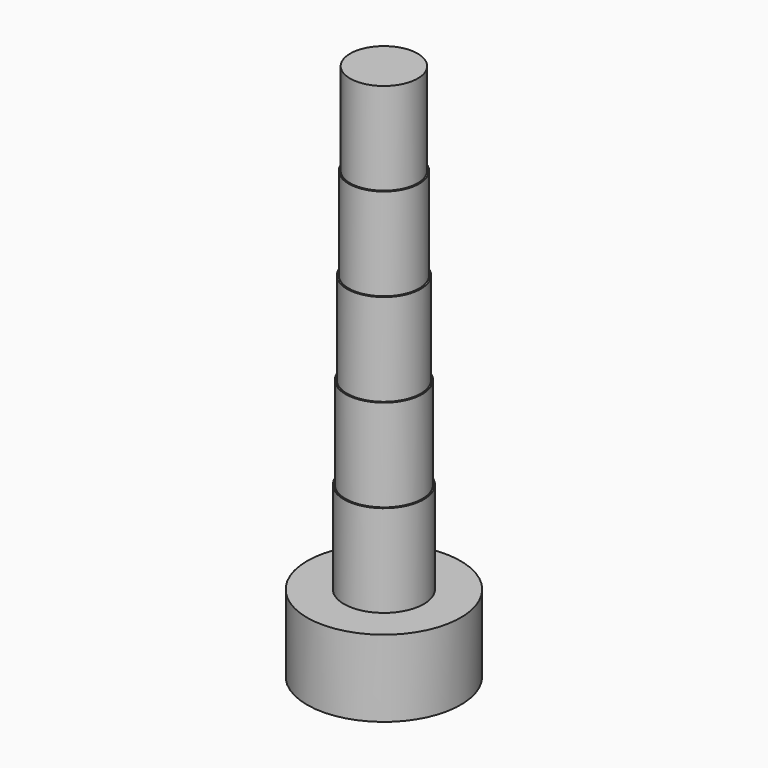
from build123d import *


with BuildPart() as f1:
    # F0 (on Front) → F1 (revolve)
    with BuildSketch(Plane.XZ):
        Polygon((-1.5875, 6.985), (0, 6.985), (0, 10.795), (-1.524, 10.795), (-1.5875, 10.795), align=None)
        Polygon((-3.175, 0), (0, 0), (0, 6.985), (-1.5875, 6.985), (-1.651, 6.985), (-1.651, 3.175), (-3.175, 3.175), align=None)
        Polygon((-1.524, 10.795), (0, 10.795), (0, 22.225), (-1.397, 22.225), (-1.397, 18.415), (-1.4605, 18.415), (-1.4605, 14.605), (-1.524, 14.605), align=None)
    revolve(axis=Axis((0, 0, 11.1125), (0, 0, -1)))


solid = f1.part
